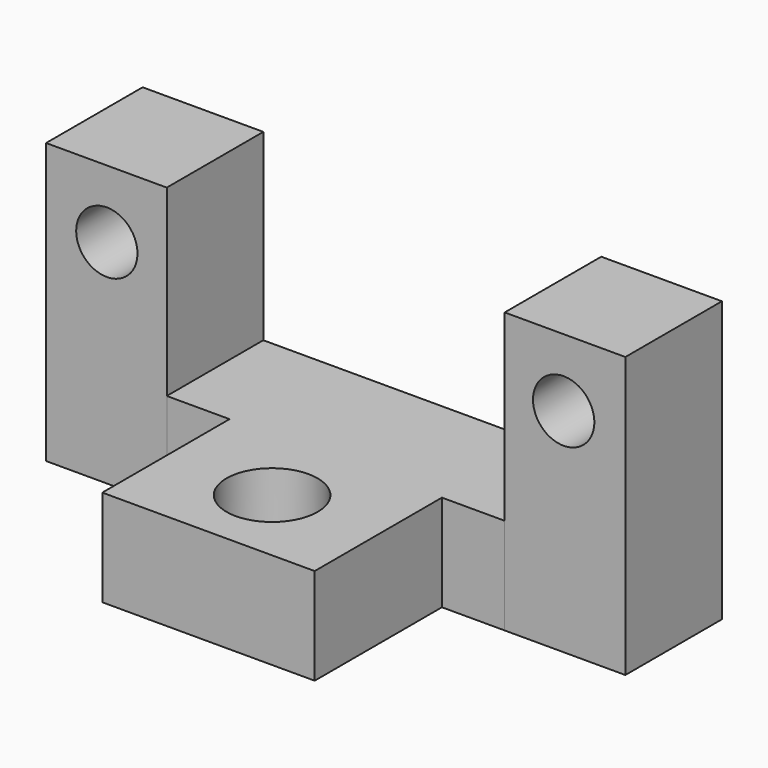
from build123d import *

# Parameters (mm, degrees)
F0_W     = 25
F0_H     = 25
F1_DEPTH = 58
F0_R     = 9.434677
F2_DEPTH = 20
F4_D     = 12.7


with BuildPart() as f1:
    # F0 (on Top) → F1 (new body)
    with BuildSketch(Plane.XY):
        with Locations((-42.50558, 17.410632)):
            Rectangle(F0_W, F0_H)
        with Locations((52.49442, 17.410632)):
            Rectangle(F0_W, F0_H)
    extrude(amount=F1_DEPTH)

    # F4 (through all)
    with Locations(Plane.XZ):
        with Locations((-42.421359, 44), (52.211914, 44)):
            Hole(F4_D / 2)


with BuildPart() as f2:
    # F0 (on Top) → F2 (new body)
    with BuildSketch(Plane.XY):
        Polygon((39.99442, 29.910632), (-30.00558, 29.910632), (-30.00558, 4.910632), (-17.00558, 4.910632), (-17.00558, -28.041313), (26.99442, -28.041313), (26.99442, 4.910632), (39.99442, 4.910632), align=None)
        with Locations((4.99442, -11.56534)):
            Circle(F0_R, mode=Mode.SUBTRACT)
    extrude(amount=F2_DEPTH)


solid = Compound([f1.part, f2.part])
